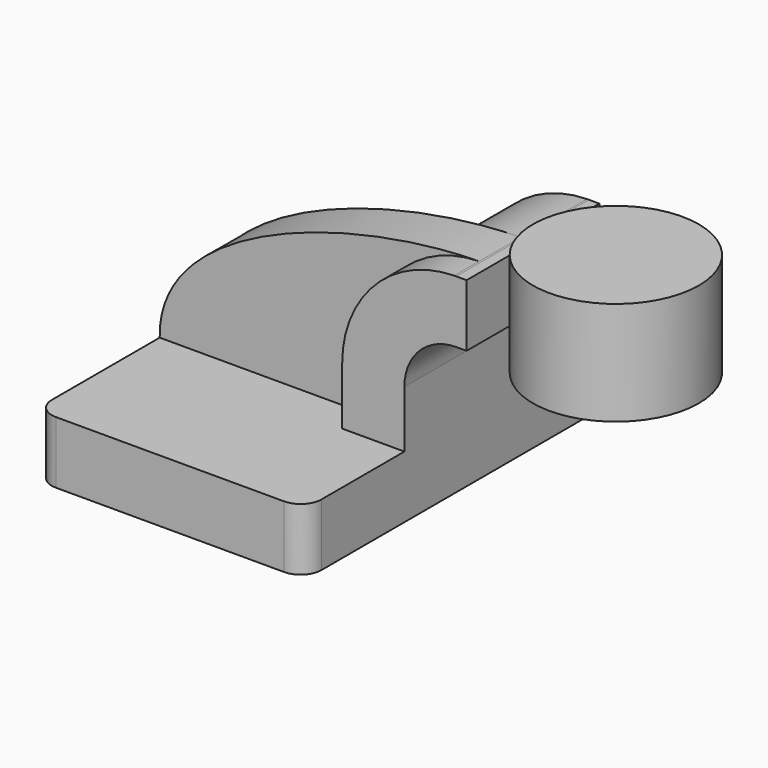
from build123d import *

# Parameters (mm, degrees)
F1_DEPTH = 63.5
F2_DEPTH = 25.4
F3_DEPTH = 15.875
F5_R     = 6.35


with BuildPart() as f1:
    # F0 (on Front) → F1 (new body, symmetric)
    with BuildSketch(Plane.XZ):
        Polygon((22.225, 9.525), (-41.275, 9.525), (-41.275, -9.525), (41.275, -9.525), (41.275, 9.525), align=None)
    extrude(amount=F1_DEPTH, both=True)

    # F0 (on Front) → F2 (join, symmetric)
    with BuildSketch(Plane.XZ):
        with BuildLine():
            Line((22.225, 27.0002), (22.225, 9.525))
            Line((22.225, 9.525), (41.275, 9.525))
            Line((41.275, 9.525), (41.275, 27.0002))
            ThreePointArc((41.275, 27.0002), (45.92468, 38.22552), (57.15, 42.8752))
            Line((57.15, 42.8752), (60.325, 42.8752))
            Line((60.325, 42.8752), (60.325, 61.9252))
            Line((60.325, 61.9252), (57.15, 61.9252))
            add(Edge.make_bspline(
                [(56.561753, 61.920246), (56.758357, 61.922352), (56.954443, 61.924004), (57.15, 61.9252)],
                knots=[110.946127, 110.946127, 110.946127, 110.946127, 111.504536, 111.504536, 111.504536, 111.504536], degree=3))
            ThreePointArc((56.561753, 61.920246), (32.247187, 51.487044), (22.225, 27.0002))
        make_face()
    extrude(amount=F2_DEPTH, both=True)

    # F0 (on Front) → F3 (join)
    with BuildSketch(Plane.XZ):
        with BuildLine():
            add(Edge.make_bspline(
                [(-41.275, 9.525), (-42.026804, 43.115073), (17.499926, 61.501674), (56.561753, 61.920246)],
                knots=[0, 0, 0, 0, 110.946127, 110.946127, 110.946127, 110.946127], degree=3))
            Line((-41.275, 9.525), (22.225, 9.525))
            Line((22.225, 9.525), (22.225, 27.0002))
            ThreePointArc((22.225, 27.0002), (32.247187, 51.487044), (56.561753, 61.920246))
        make_face()
    extrude(amount=F3_DEPTH)

    # F0 (on Front) → F4 (revolve)
    with BuildSketch(Plane.XZ):
        Polygon((85.725, 66.675), (85.725, 61.9252), (85.725, 34.925), (111.125, 34.925), (111.125, 66.675), align=None)
    revolve(axis=Axis((85.725, 0, 50.8), (0, 0, 1)))

    # F5
    f5_edges = [f1.edges().sort_by_distance(p)[0] for p in [
        (41.275, 63.5, 0),
        (-41.275, 63.5, 0),
        (-41.275, -63.5, 0),
        (41.275, -63.5, 0),
    ]]
    fillet(f5_edges, radius=F5_R)


solid = f1.part
